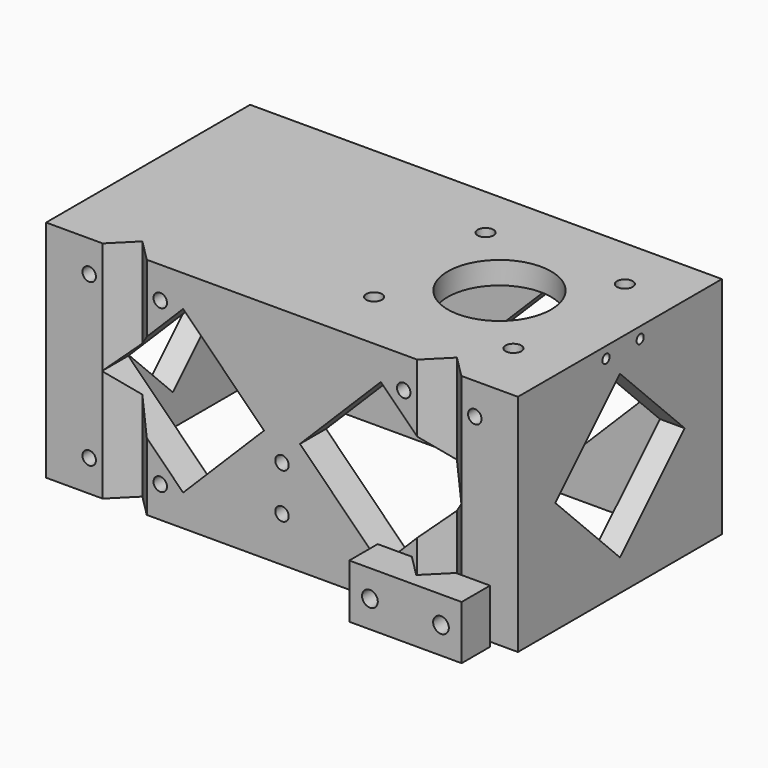
from build123d import *

# Parameters (mm, degrees)
PAD001_DEPTH    = 12
SKETCH003_R     = 1.75
POCKET001_DEPTH = 7.907854
SKETCH_R        = 11.5
SKETCH_R_2      = 1.75
PAD_DEPTH       = 50
POCKET_DEPTH    = 45
SKETCH004_R     = 1.5
POCKET002_DEPTH = 8
POCKET003_DEPTH = 56.751
SKETCH007_R     = 1.5
POCKET004_DEPTH = 6
POCKET005_DEPTH = 105.001
SKETCH009_R     = 1
POCKET006_DEPTH = 8


with BuildPart() as obj1:
    # Sketch001 → Pad001 (new body)
    with BuildSketch(Plane.XY):
        Polygon((126.85, 22.75), (119.256854, 22.75), (114.35, 17.843146), (109.443146, 22.75), (101.85, 22.75), (101.85, 14.843146), (126.85, 14.843146), align=None)
    extrude(amount=PAD001_DEPTH)

    # Sketch003 → Pocket001 (cut, through all)
    with BuildSketch(Plane(origin=(0, 22.75, 0), x_dir=(-1, 0, 0), z_dir=(0, 1, 0))):
        with Locations((-122.256854, 6)):
            Circle(SKETCH003_R)
        with Locations((-106.443146, 6)):
            Circle(SKETCH003_R)
    extrude(amount=-POCKET001_DEPTH, mode=Mode.SUBTRACT)


with BuildPart() as pocket006:
    # Sketch → Pad (new body)
    with BuildSketch(Plane.XY):
        Polygon((39.443146, 24.25), (44.35, 29.156854), (49.256854, 24.25), (109.443146, 24.25), (114.35, 29.156854), (119.256854, 24.25), (131.85, 24.25), (131.85, 81), (26.85, 81), (26.85, 24.25), align=None)
        with Locations((104.35, 53.5)):
            Circle(SKETCH_R, mode=Mode.SUBTRACT)
        with Locations((88.85, 69)):
            Circle(SKETCH_R_2, mode=Mode.SUBTRACT)
        with Locations((119.85, 69)):
            Circle(SKETCH_R_2, mode=Mode.SUBTRACT)
        with Locations((88.85, 38)):
            Circle(SKETCH_R_2, mode=Mode.SUBTRACT)
        with Locations((119.85, 38)):
            Circle(SKETCH_R_2, mode=Mode.SUBTRACT)
    extrude(amount=PAD_DEPTH)

    # Sketch002 → Pocket (cut)
    with BuildSketch(Plane(origin=(0, 0, 0), x_dir=(1, 0, 0), z_dir=(0, 0, -1))):
        Polygon((126.35, -75.5), (126.35, -31.5), (82.35, -31.5), (32.35, -31.5), (32.35, -75.5), (82.35, -75.5), align=None)
    extrude(amount=-POCKET_DEPTH, mode=Mode.SUBTRACT)

    # Sketch004 → Pocket002 (cut)
    with BuildSketch(Plane.XZ.offset(-24.25)):
        with Locations((36.443146, 7)):
            Circle(SKETCH004_R)
        with Locations((52.256854, 7)):
            Circle(SKETCH004_R)
        with Locations((79.35, 20)):
            Circle(SKETCH004_R)
        with Locations((79.35, 10)):
            Circle(SKETCH004_R)
        with Locations((106.443146, 7)):
            Circle(SKETCH004_R)
        with Locations((122.256854, 7)):
            Circle(SKETCH004_R)
        with Locations((36.443146, 43)):
            Circle(SKETCH004_R)
        with Locations((52.256854, 43)):
            Circle(SKETCH004_R)
        with Locations((106.443146, 43)):
            Circle(SKETCH004_R)
        with Locations((122.256854, 43)):
            Circle(SKETCH004_R)
    extrude(amount=-POCKET002_DEPTH, mode=Mode.SUBTRACT)

    # Sketch006 → Pocket003 (cut, through all)
    with BuildSketch(Plane(origin=(0, 81, 0), x_dir=(-1, 0, 0), z_dir=(0, 1, 0))):
        Polygon((-83.35, 25), (-101.35, 43), (-119.35, 25), (-101.35, 7), align=None)
        Polygon((-39.35, 25), (-57.35, 43), (-75.35, 25), (-57.35, 7), align=None)
    extrude(amount=-POCKET003_DEPTH, mode=Mode.SUBTRACT)

    # Sketch007 → Pocket004 (cut)
    with BuildSketch(Plane(origin=(0, 81, 0), x_dir=(-1, 0, 0), z_dir=(0, 1, 0))):
        with Locations((-124.35, 20)):
            Circle(SKETCH007_R)
        with Locations((-124.35, 10)):
            Circle(SKETCH007_R)
        with Locations((-34.35, 20)):
            Circle(SKETCH007_R)
        with Locations((-34.35, 10)):
            Circle(SKETCH007_R)
    extrude(amount=-POCKET004_DEPTH, mode=Mode.SUBTRACT)

    # Sketch008 → Pocket005 (cut, through all)
    with BuildSketch(Plane(origin=(26.85, 0, 0), x_dir=(0, -1, 0), z_dir=(-1, 0, 0))):
        Polygon((-52.625, 7), (-34.625, 25), (-52.625, 43), (-70.625, 25), align=None)
    extrude(amount=-POCKET005_DEPTH, mode=Mode.SUBTRACT)

    # Sketch009 → Pocket006 (cut)
    with BuildSketch(Plane.YZ.offset(131.85)):
        with Locations((48.75, 47.5)):
            Circle(SKETCH009_R)
        with Locations((58.25, 47.5)):
            Circle(SKETCH009_R)
    extrude(amount=-POCKET006_DEPTH, mode=Mode.SUBTRACT)


solid = Compound([obj1.part, pocket006.part])
